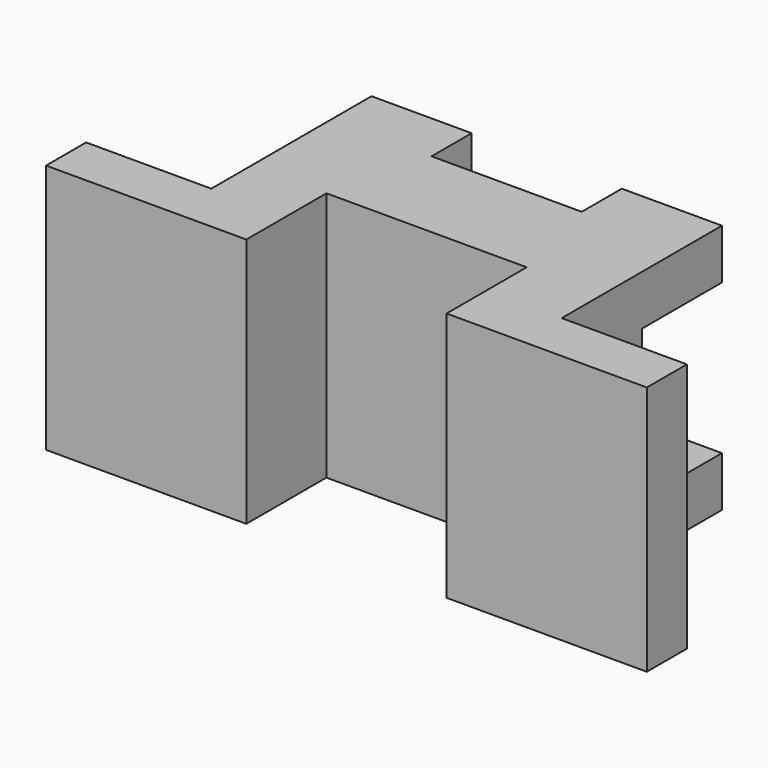
from build123d import *

# Parameters (mm, degrees)
F2_DEPTH = 50
F3_W     = 70
F3_H     = 30
F4_DEPTH = 20


with BuildPart() as f2:
    # F1 (on Top) → F2 (new body)
    with BuildSketch(Plane.XY):
        Polygon((0, 10), (0, 0), (40, 0), (40, 20), (80, 20), (80, 0), (120, 0), (120, 10), (95, 10), (95, 50), (75, 50), (75, 40), (45, 40), (45, 50), (25, 50), (25, 10), align=None)
    extrude(amount=F2_DEPTH)

    # F3 (on face) → F4 (cut)
    with BuildSketch(Plane(origin=(0, 50, 0), x_dir=(-1, 0, 0), z_dir=(0, 1, 0))):
        with Locations((-60, 25)):
            Rectangle(F3_W, F3_H)
    extrude(amount=-F4_DEPTH, mode=Mode.SUBTRACT)


solid = f2.part
